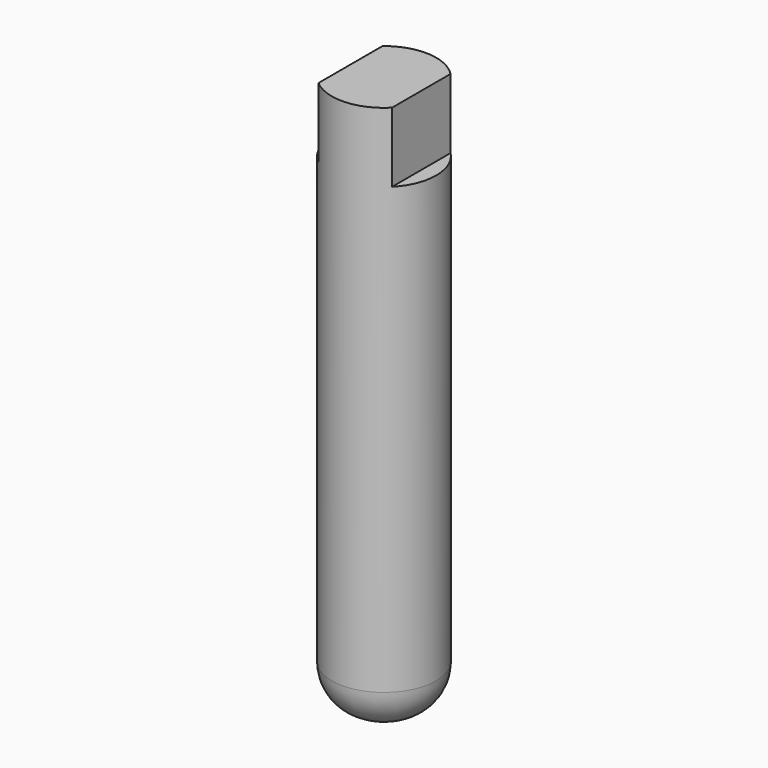
from build123d import *

# Parameters (mm, degrees)
F0_R     = 19.05
F1_DEPTH = 203.2
F3_DEPTH = 25.4
F4_DEPTH = 25.4
F5_R     = 15.5892770942


with BuildPart() as f1:
    # F0 (on Top) → F1 (new body)
    with BuildSketch(Plane.XY):
        Circle(F0_R)
    extrude(amount=F1_DEPTH)

    # F2 (on face) → F3 (cut)
    with BuildSketch(Plane.XY.offset(203.2)):
        with BuildLine():
            Line((-12.2428, -14.5950795873), (-12.2428, 14.5950795873))
            ThreePointArc((-12.2428, 14.5950795873), (-19.05, 0), (-12.2428, -14.5950795873))
        make_face()
    extrude(amount=-F3_DEPTH, mode=Mode.SUBTRACT)

    # F2 (on face) → F4 (cut)
    with BuildSketch(Plane.XY.offset(203.2)):
        with BuildLine():
            ThreePointArc((13.6144, -13.3248119176), (17.6388324444, -7.1954214609), (19.05, 0))
            ThreePointArc((19.05, 0), (17.6388324444, 7.1954214609), (13.6144, 13.3248119176))
            Line((13.6144, 13.3248119176), (13.6144, -13.3248119176))
        make_face()
    extrude(amount=-F4_DEPTH, mode=Mode.SUBTRACT)

    # F5
    f5_edges = [f1.edges().sort_by_distance(p)[0] for p in [
        (-19.05, 0, 0),
    ]]
    fillet(f5_edges, radius=F5_R)


solid = f1.part
